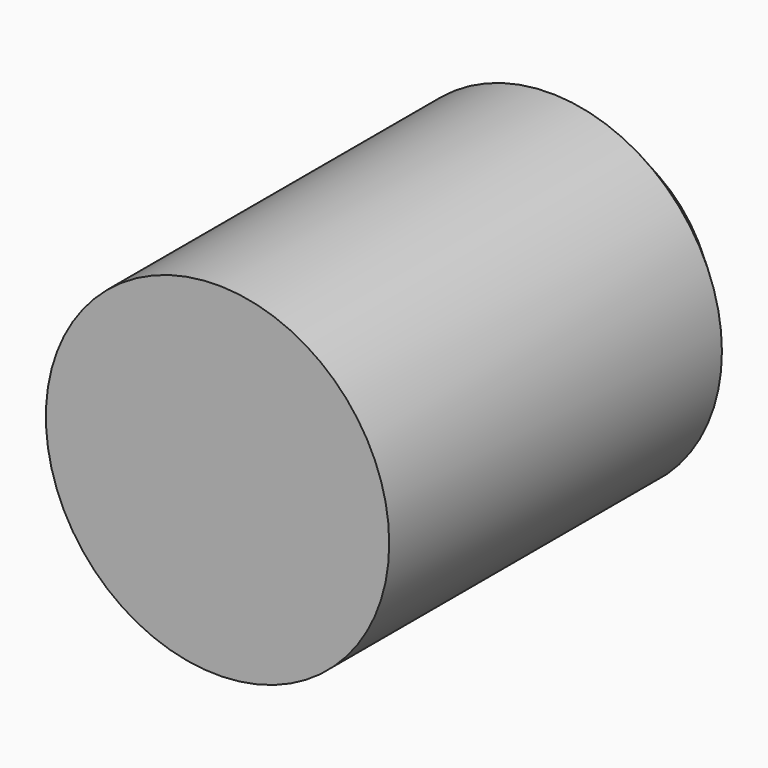
from build123d import *

# Parameters (mm, degrees)
F1_R     = 74.30936
F2_DEPTH = 200
F3_SIZE  = 20


with BuildPart() as f2:
    # F1 (on face) → F2 (new body)
    with BuildSketch(Plane.XZ):
        Circle(F1_R)
    extrude(amount=-F2_DEPTH)

    # F3
    f3_edges = [f2.edges().sort_by_distance(p)[0] for p in [
        (-74.30936, 200, 0),
    ]]
    chamfer(f3_edges, length=F3_SIZE)


solid = f2.part
